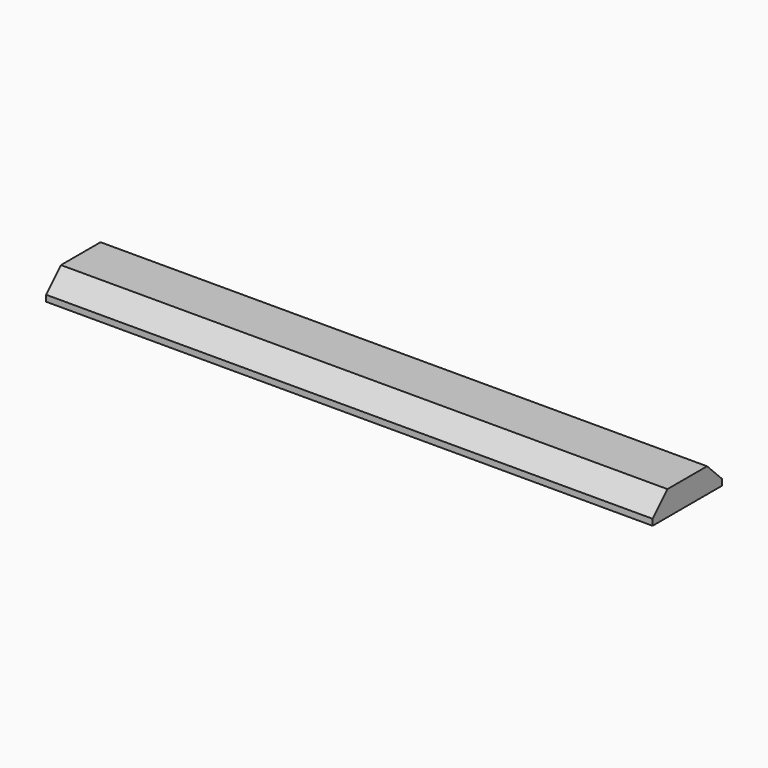
from build123d import *

# Parameters (mm, degrees)
F0_W     = 1244.6
F0_H     = 177.8
F1_DEPTH = 50.8
F2_SIZE2 = 38.1
F2_SIZE  = 38.1


with BuildPart() as f1:
    # F0 (on Top) → F1 (new body)
    with BuildSketch(Plane.XY):
        with Locations((622.3, 88.9)):
            Rectangle(F0_W, F0_H)
    extrude(amount=F1_DEPTH)

    # F2
    f2_edges = [f1.edges().sort_by_distance(p)[0] for p in [
        (622.3, 0, 50.8),
        (622.3, 177.8, 50.8),
    ]]
    chamfer(f2_edges, length=F2_SIZE, length2=F2_SIZE2)


solid = f1.part
